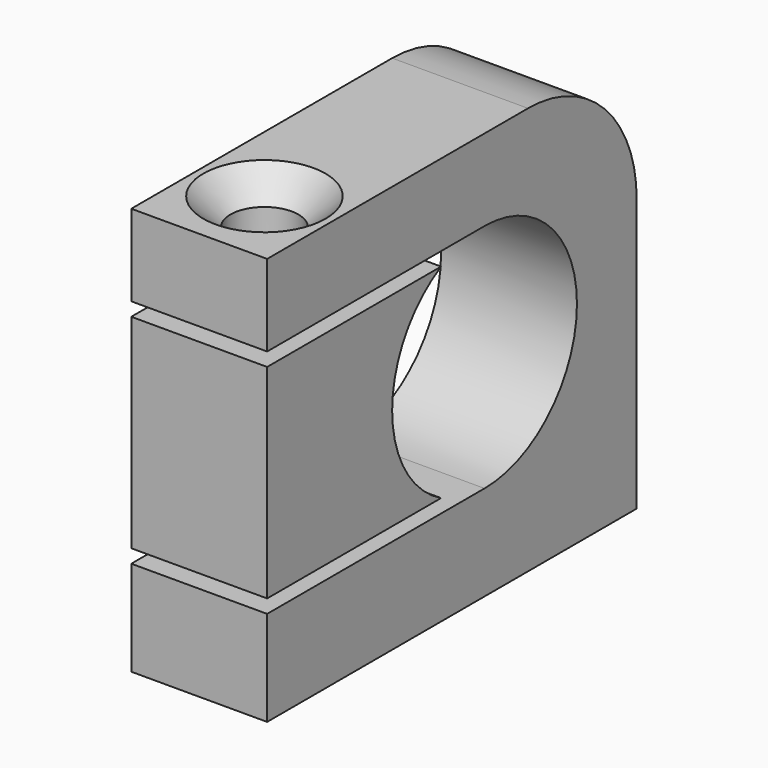
from build123d import *

# Parameters (mm, degrees)
CYLINDER001_R           = 8.5
CYLINDER001_DEPTH       = 30
CYLINDER001_PITCH_ANGLE = 90
CYLINDER_R              = 2.5
CYLINDER_DEPTH          = 37
BOX001_W                = 15
BOX001_H                = 20
BOX001_DEPTH            = 17
BOX_W                   = 10
BOX_H                   = 34
BOX_DEPTH               = 30
CHAMFER_SIZE            = 2
FILLET_R                = 10
CYLINDER003_R           = 2.5
CYLINDER003_DEPTH       = 37
CYLINDER002_R           = 8.5
CYLINDER002_DEPTH       = 30
CYLINDER002_PITCH_ANGLE = 90
BOX002_W                = 10
BOX002_H                = 20
BOX002_DEPTH            = 15


with BuildPart() as cylinder001:
    # Cylinder001 → Cylinder001 (new body)
    with BuildSketch(Plane.XY):
        Circle(CYLINDER001_R)
    extrude(amount=CYLINDER001_DEPTH)


with BuildPart() as cylinder001_1:
    # Cylinder001 pitch: moved
    add(cylinder001.part.rotate(Axis((0, 0, 0), (0, 1, 0)), CYLINDER001_PITCH_ANGLE))


with BuildPart() as cylinder001_2:
    # Cylinder001 placement: moved
    add(cylinder001_1.part.moved(Location((-14, 14, 15.5))))


with BuildPart() as cylinder:
    # Cylinder → Cylinder (new body)
    with BuildSketch(Plane.XY.offset(-1)):
        Circle(CYLINDER_R)
    extrude(amount=CYLINDER_DEPTH)


with BuildPart() as fusion:
    # Box001 → Box001 (new body)
    with BuildSketch(Plane(origin=(-7, -6, 7), x_dir=(1, 0, 0), z_dir=(0, 0, 1))):
        with Locations((7.5, 10)):
            Rectangle(BOX001_W, BOX001_H)
    extrude(amount=BOX001_DEPTH)

    # Fusion: union Cylinder001, Cylinder
    add(cylinder001_2.part)
    add(cylinder.part)


with BuildPart() as fillet_body:
    # Box → Box (new body)
    with BuildSketch(Plane(origin=(-5, -6, 0), x_dir=(1, 0, 0), z_dir=(0, 0, 1))):
        with Locations((5, 17)):
            Rectangle(BOX_W, BOX_H)
    extrude(amount=BOX_DEPTH)

    # Cut: cut Fusion
    add(fusion.part, mode=Mode.SUBTRACT)

    # Chamfer
    chamfer_edges = [fillet_body.edges().sort_by_distance(p)[0] for p in [
        (-2.5, 0, 30),
    ]]
    chamfer(chamfer_edges, length=CHAMFER_SIZE)

    # Fillet
    fillet_edges = [fillet_body.edges().sort_by_distance(p)[0] for p in [
        (0, 28, 30),
    ]]
    fillet(fillet_edges, radius=FILLET_R)


with BuildPart() as cylinder003:
    # Cylinder003 → Cylinder003 (new body)
    with BuildSketch(Plane.XY.offset(-1)):
        Circle(CYLINDER003_R)
    extrude(amount=CYLINDER003_DEPTH)


with BuildPart() as fusion001:
    # Cylinder002 → Cylinder002 (new body)
    with BuildSketch(Plane.XY):
        Circle(CYLINDER002_R)
    extrude(amount=CYLINDER002_DEPTH)


with BuildPart() as fusion001_1:
    # Cylinder002 pitch: moved
    add(fusion001.part.rotate(Axis((0, 0, 0), (0, 1, 0)), CYLINDER002_PITCH_ANGLE))


with BuildPart() as fusion001_2:
    # Cylinder002 placement: moved
    add(fusion001_1.part.moved(Location((-14, 14, 15.5))))

    # Fusion001: union Cylinder003
    add(cylinder003.part)


with BuildPart() as cut001:
    # Box002 → Box002 (new body)
    with BuildSketch(Plane(origin=(-5, -6, 8), x_dir=(1, 0, 0), z_dir=(0, 0, 1))):
        with Locations((5, 10)):
            Rectangle(BOX002_W, BOX002_H)
    extrude(amount=BOX002_DEPTH)

    # Cut001: cut Fusion001
    add(fusion001_2.part, mode=Mode.SUBTRACT)


solid = Compound([fillet_body.part, cut001.part])
